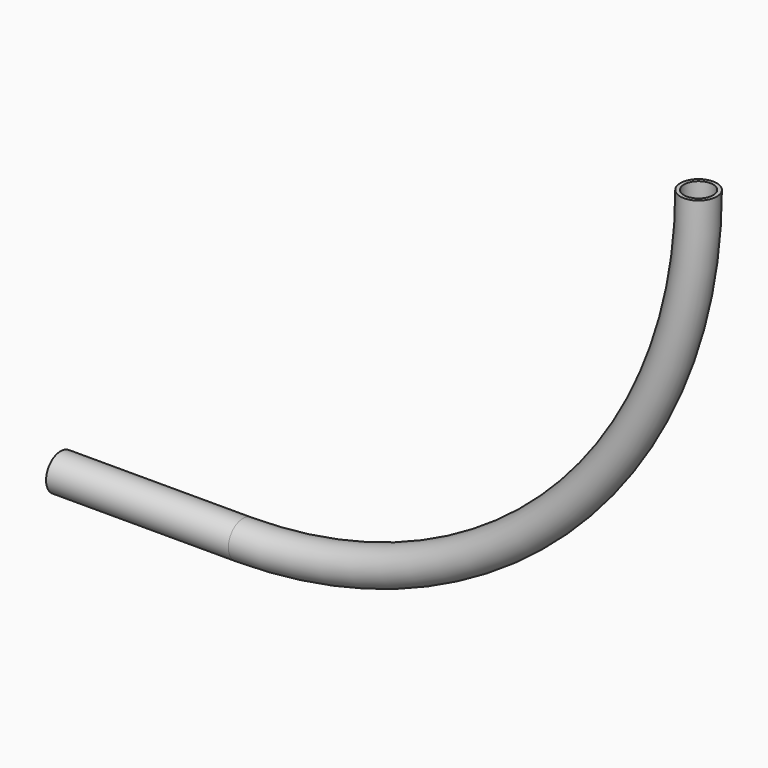
from build123d import *

# Parameters (mm, degrees)
F1_R   = 10
F1_R_2 = 8


with BuildPart() as f2:
    # F2: sweep along a path in F0
    with BuildLine(Plane.XZ) as f2_path:
        ThreePointArc((250, 0), (176.7766952966, -176.7766952966), (0, -250))
        Line((0, -250), (-100, -250))
    # F1 (on Right) → F2 (sweep)
    with BuildSketch(Plane.YZ):
        with Locations((0, -250)):
            Circle(F1_R)
        with Locations((0, -250)):
            Circle(F1_R_2, mode=Mode.SUBTRACT)
    sweep(path=f2_path.line)


solid = f2.part
